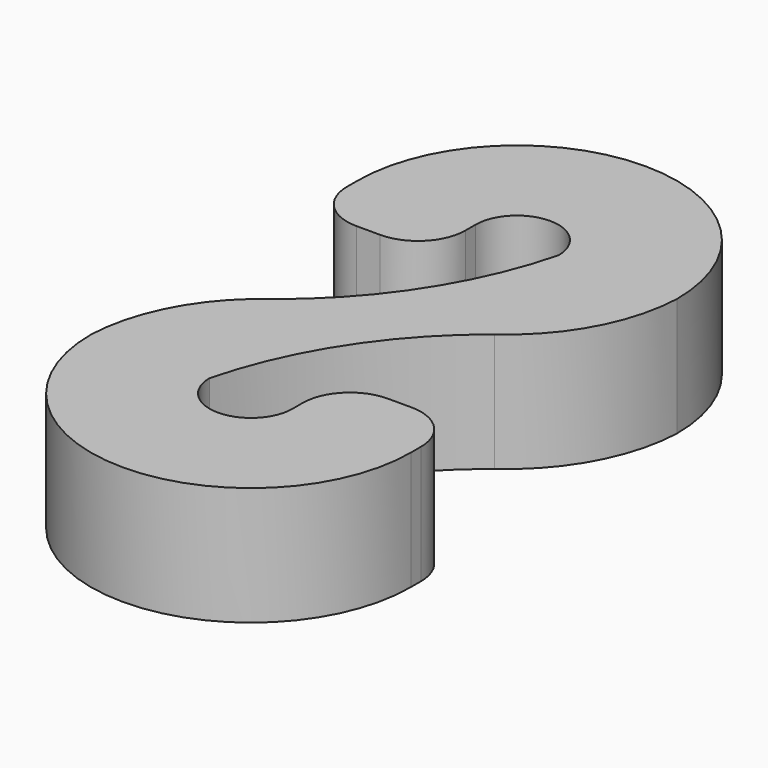
from build123d import *

# Parameters (mm, degrees)
F1_DEPTH = 5
F2_R     = 2


with BuildPart() as f1:
    # F0 (on Top) → F1 (new body)
    with BuildSketch(Plane.XY):
        with BuildLine():
            ThreePointArc((3.63717, -5.720129), (5.85243, -3.218601), (6.75, 0))
            ThreePointArc((6.75, 0), (0, 6.761681), (-6.75, 0))
            Line((-6.75, 0), (-6.75, -2.528022))
            Line((-6.75, -2.528022), (-1.75, -2.528022))
            Line((-1.75, -2.528022), (-1.75, 0))
            ThreePointArc((-1.75, 0), (0, 1.75), (1.75, 0))
            ThreePointArc((1.75, 0), (-0.257619, -4.599435), (-3.63717, -8.309419))
            ThreePointArc((-3.63717, -8.309419), (-5.85243, -10.810947), (-6.75, -14.029548))
            ThreePointArc((-6.75, -14.029548), (0, -20.791229), (6.75, -14.029548))
            Line((6.75, -14.029548), (6.75, -11.501526))
            Line((6.75, -11.501526), (1.75, -11.501526))
            Line((1.75, -11.501526), (1.75, -14.029548))
            ThreePointArc((1.75, -14.029548), (0, -15.779548), (-1.75, -14.029548))
            ThreePointArc((-1.75, -14.029548), (0.257619, -9.430112), (3.63717, -5.720129))
        make_face()
    extrude(amount=F1_DEPTH)

    # F2
    f2_edges = [f1.edges().sort_by_distance(p)[0] for p in [
        (-6.75, -2.528022, 2.5),
        (6.75, -11.501526, 2.5),
        (1.75, -11.501526, 2.5),
        (-1.75, -2.528022, 2.5),
    ]]
    fillet(f2_edges, radius=F2_R)


solid = f1.part
